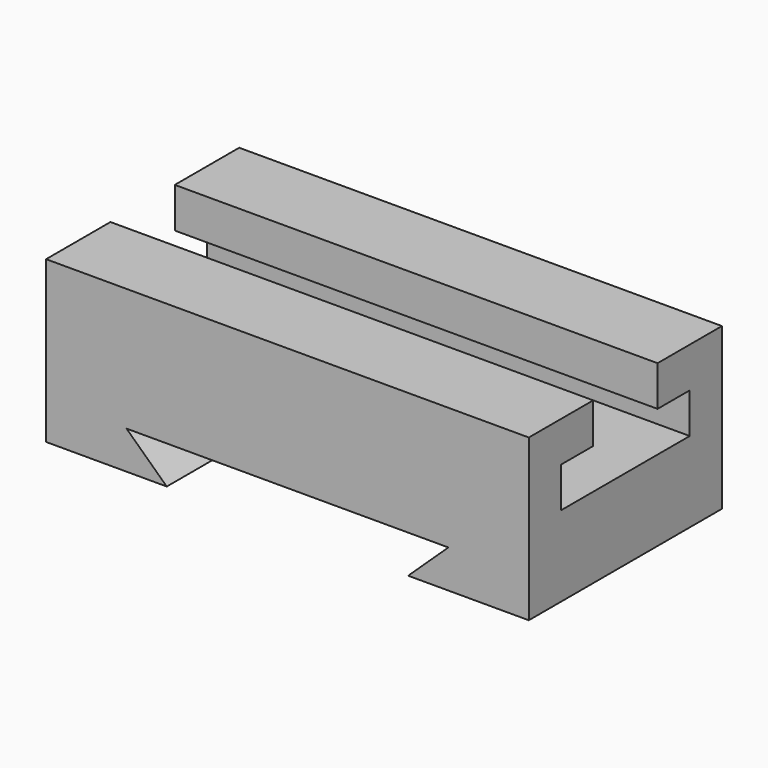
from build123d import *

# Parameters (mm, degrees)
F1_DEPTH = 152.4
F3_DEPTH = 76.2
F5_DEPTH = 76.2


with BuildPart() as f1:
    # F0 (on Right) → F1 (new body)
    with BuildSketch(Plane.YZ):
        Polygon((-12.7, 25.4), (-38.1, 25.4), (-38.1, -25.4), (38.1, -25.4), (38.1, 25.4), (12.7, 25.4), (12.7, 12.7), (25.4, 12.7), (25.4, 0), (-25.4, 0), (-25.4, 12.7), (-12.7, 12.7), align=None)
    extrude(amount=F1_DEPTH)

    # F2 (on Front) → F3 (cut)
    with BuildSketch(Plane.XZ):
        Polygon((25.4, -13.421915), (38.1, -25.4), (93.651866, -25.4), (114.3, -25.4), (127, -13.421915), align=None)
    extrude(amount=-F3_DEPTH, mode=Mode.SUBTRACT)

    # F4 (on face) → F5 (cut)
    with BuildSketch(Plane(origin=(0, 0, 0), x_dir=(-1, 0, 0), z_dir=(0, 1, 0))):
        Polygon((-114.3, -25.4), (-38.1, -25.4), (-25.4, -13.421915), (-127, -13.421915), align=None)
    extrude(amount=-F5_DEPTH, mode=Mode.SUBTRACT)


solid = f1.part
